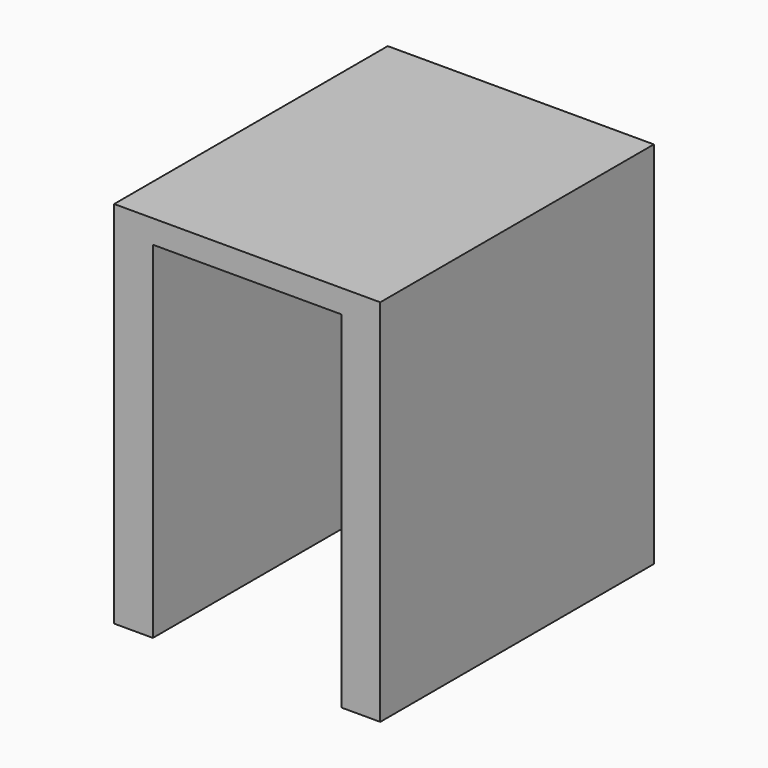
from build123d import *

# Parameters (mm, degrees)
F0_W     = 8.634172
F0_H     = 77.131942
F1_DEPTH = 76.2


with BuildPart() as f1:
    # F0 (on Front) → F1 (new body)
    with BuildSketch(Plane.XZ):
        Polygon((7.051242, 29.787894), (2.734156, 29.787894), (2.734156, -47.344048), (11.368327, -47.344048), (11.368327, 29.787894), align=None)
        Polygon((-47.919657, 34.968402), (-47.919657, 29.787894), (-39.285485, 29.787894), (2.734156, 29.787894), (7.051242, 29.787894), (11.368327, 29.787894), (11.368327, 34.968402), align=None)
        with Locations((-43.602571, -8.778077)):
            Rectangle(F0_W, F0_H)
    extrude(amount=F1_DEPTH)


solid = f1.part
